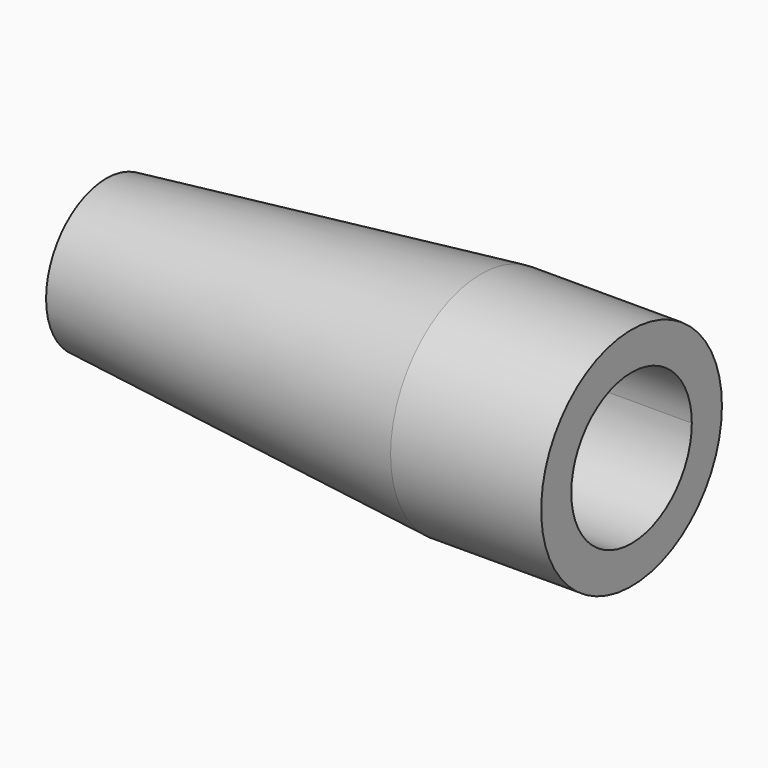
from build123d import *

# Parameters (mm, degrees)
F2_R     = 19.05
F3_DEPTH = 25.4
F4_T     = -6.35
F6_D     = 25.4
F6_DEPTH = 82.2327022563
F8_D     = 25.4


with BuildPart() as f1:
    # F0 (on Front) → F1 (revolve)
    with BuildSketch(Plane.XZ):
        Polygon((0, 12.7), (0, 0), (63.1817022563, 0), (63.1817022563, 19.05), align=None)
    revolve(axis=Axis((31.5908511281, 0, 0), (-1, 0, 0)))

    # F2 (on face) → F3 (join)
    with BuildSketch(Plane.YZ.offset(63.1817022563)):
        Circle(F2_R)
    extrude(amount=F3_DEPTH)

    # F4
    f4_openings = [f1.faces().sort_by_distance(p)[0] for p in [
        (88.581702, 0, 0),
    ]]
    offset(amount=F4_T, openings=f4_openings)

    # F6 (through all, one way)
    with BuildSketch(Plane(origin=(6.35, 0, 0), x_dir=(0, 1, 0), z_dir=(-1, 0, 0))):
        with Locations((0, 0)):
            Circle(F6_D / 2)
    extrude(amount=-F6_DEPTH, mode=Mode.SUBTRACT)

    # F8 (through all)
    with Locations(Plane.YZ.offset(6.35)):
        with Locations((0, 0)):
            Hole(F8_D / 2)


solid = f1.part
